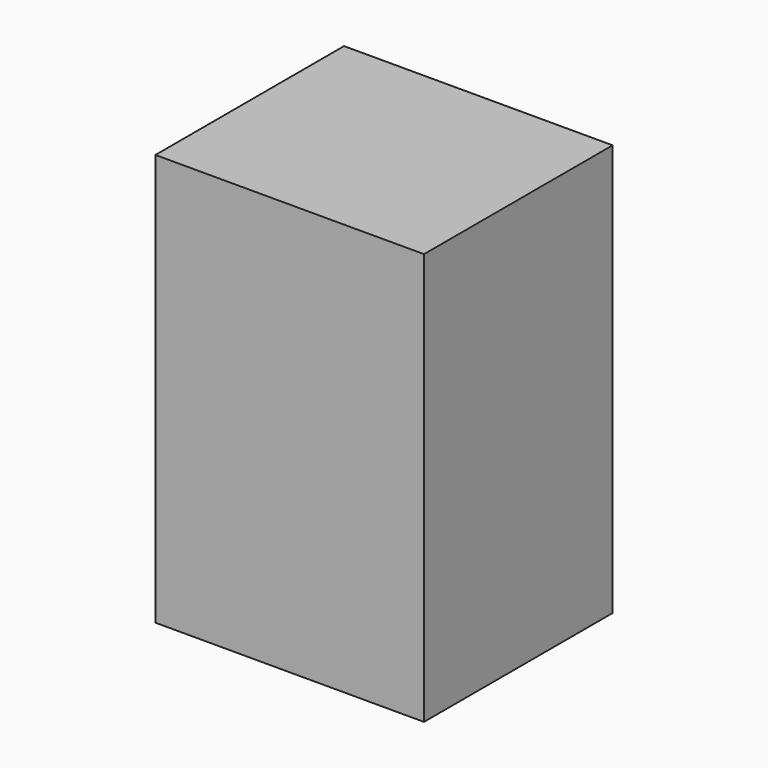
from build123d import *

# Parameters (mm, degrees)
F0_W     = 450
F0_H     = 395
F1_DEPTH = 690
F2_R     = 11
F2_R_2   = 7.5
F3_DEPTH = 30


with BuildPart() as f1:
    # F0 (on Top) → F1 (new body)
    with BuildSketch(Plane.XY):
        with Locations((26.237384, 88.916137)):
            Rectangle(F0_W, F0_H)
    extrude(amount=F1_DEPTH)

    # F2 (on face) → F3 (join)
    with BuildSketch(Plane.XY):
        with Locations((184.237384, 136.416137)):
            Circle(F2_R)
        with Locations((119.237384, 136.416137)):
            Circle(F2_R_2)
        with Locations((52.237384, 136.416137)):
            Circle(F2_R_2)
        with Locations((-14.762616, 136.416137)):
            Circle(F2_R_2)
        with Locations((-79.762616, 136.416137)):
            Circle(F2_R)
    extrude(amount=-F3_DEPTH)


solid = f1.part
